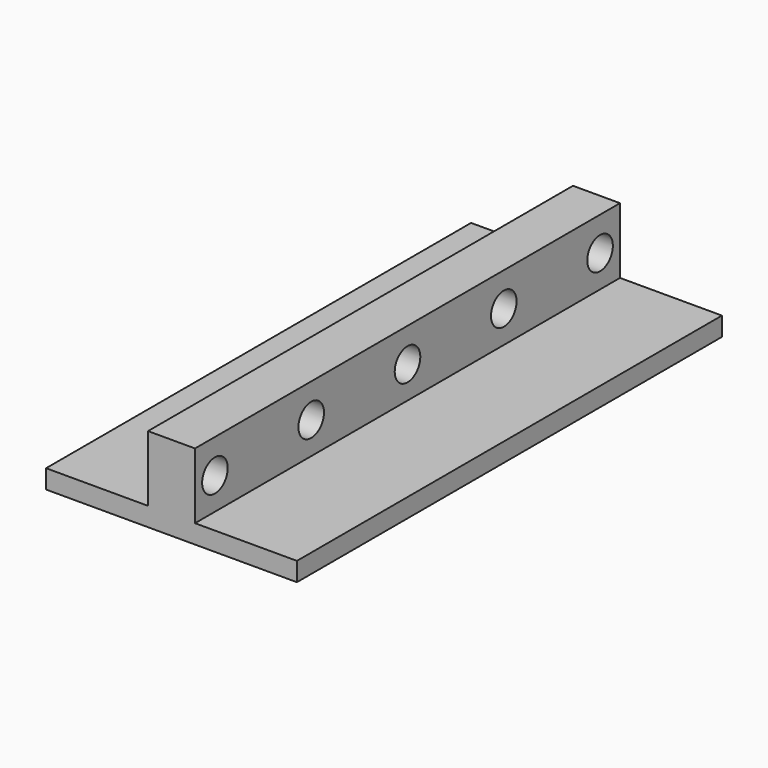
from build123d import *

# Parameters (mm, degrees)
F0_W     = 33.8836
F0_H     = 71.755
F1_DEPTH = 2.54
F2_W     = 6.35
F2_H     = 71.755
F3_DEPTH = 8.89
F4_R     = 2.159
F5_DEPTH = 6.35


with BuildPart() as f1:
    # F0 (on Top) → F1 (new body)
    with BuildSketch(Plane.XY):
        with Locations((-16.9418, 1.956956)):
            Rectangle(F0_W, F0_H)
    extrude(amount=F1_DEPTH)

    # F2 (on face) → F3 (join)
    with BuildSketch(Plane.XY.offset(2.54)):
        with Locations((-16.9418, 1.956956)):
            Rectangle(F2_W, F2_H)
    extrude(amount=F3_DEPTH)

    # F4 (on face) → F5 (cut)
    with BuildSketch(Plane(origin=(-20.1168, 0, 0), x_dir=(0, -1, 0), z_dir=(-1, 0, 0))):
        with Locations((-18.212956, 6.858)):
            Circle(F4_R)
        with Locations((-34.468956, 6.858)):
            Circle(F4_R)
        with Locations((-1.956956, 6.858)):
            Circle(F4_R)
        with Locations((14.299044, 6.858)):
            Circle(F4_R)
        with Locations((30.555044, 6.858)):
            Circle(F4_R)
    extrude(amount=-F5_DEPTH, mode=Mode.SUBTRACT)


solid = f1.part
